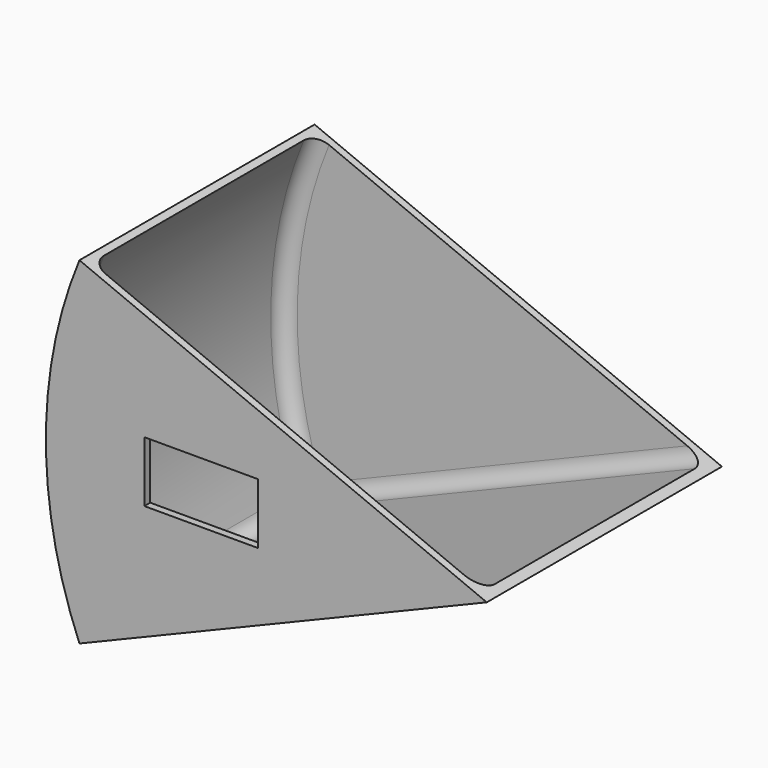
from build123d import *

# Parameters (mm, degrees)
F0_W          = 152.4
F0_H          = 101.6
F1_ANGLE_BACK = 22.5
F1_ANGLE      = 45
F2_T          = -2.54
F3_R          = 5.08
F4_W          = 39.3600463867
F4_H          = 20.9691906348
F5_DEPTH      = 25.4


with BuildPart() as f1:
    # F0 (on Top) → F1 (revolve)
    with BuildSketch(Plane.XY, mode=Mode.PRIVATE) as f1_sk:
        with Locations((-76.2, -50.8)):
            Rectangle(F0_W, F0_H)
    revolve(f1_sk.sketch.rotate(Axis((0, -50.8, 0), (0, 1, 0)), -F1_ANGLE_BACK), axis=Axis((0, -50.8, 0), (0, 1, 0)), revolution_arc=F1_ANGLE)

    # F2
    f2_openings = [f1.faces().sort_by_distance(p)[0] for p in [
        (-70.39962, -50.8, 29.160478),
    ]]
    offset(amount=F2_T, openings=f2_openings)

    # F3
    f3_edges = [f1.edges().sort_by_distance(p)[0] for p in [
        (-71.361692, -99.06, -26.809705),
        (-149.854618, -99.06, 1.270046),
        (-139.404714, -50.8, -54.994047),
        (-71.361692, -2.54, -26.809705),
        (-149.854618, -2.54, 1.270046),
    ]]
    fillet(f3_edges, radius=F3_R)

    # F4 (on face) → F5 (cut)
    with BuildSketch(Plane.XZ.offset(101.6)):
        with Locations((-98.6861884594, 1.2850291096)):
            Rectangle(F4_W, F4_H)
    extrude(amount=-F5_DEPTH, mode=Mode.SUBTRACT)


solid = f1.part
